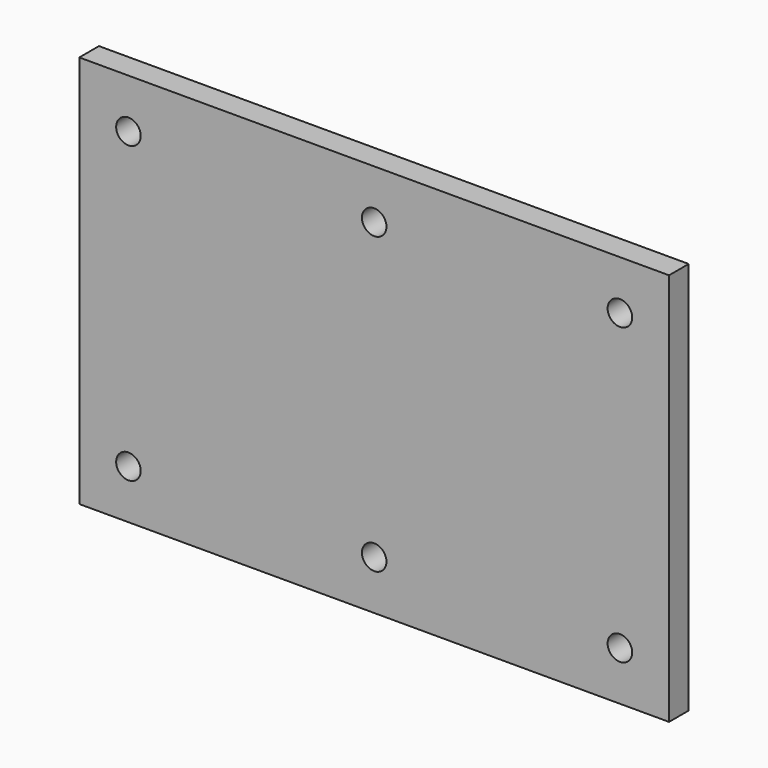
from build123d import *

# Parameters (mm, degrees)
F0_W     = 152.4
F0_H     = 101.6
F0_R     = 3.175
F1_DEPTH = 6.35


with BuildPart() as f1:
    # F0 (on Front) → F1 (new body)
    with BuildSketch(Plane.XZ):
        with Locations((13.033886, 6.143307)):
            Rectangle(F0_W, F0_H)
        with Locations((-50.466114, -31.956693)):
            Circle(F0_R, mode=Mode.SUBTRACT)
        with Locations((13.033886, -31.956693)):
            Circle(F0_R, mode=Mode.SUBTRACT)
        with Locations((76.533886, -31.956693)):
            Circle(F0_R, mode=Mode.SUBTRACT)
        with Locations((-50.466114, 44.243307)):
            Circle(F0_R, mode=Mode.SUBTRACT)
        with Locations((13.033886, 44.243307)):
            Circle(F0_R, mode=Mode.SUBTRACT)
        with Locations((76.533886, 44.243307)):
            Circle(F0_R, mode=Mode.SUBTRACT)
    extrude(amount=F1_DEPTH)


solid = f1.part
